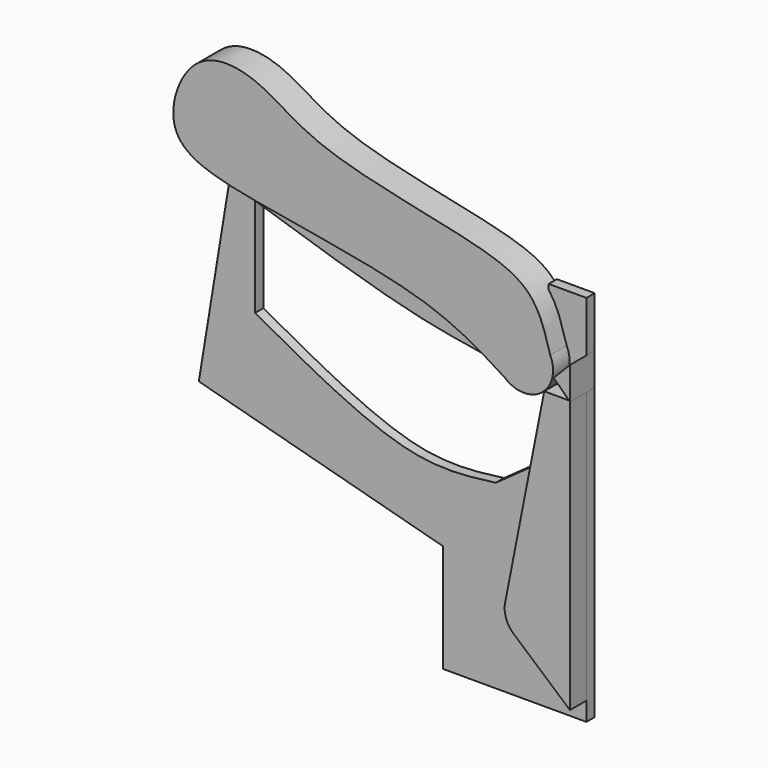
from build123d import *

# Parameters (mm, degrees)
F2_DEPTH = 7.62
F3_DEPTH = 2.54
F5_DEPTH = 7.62


with BuildPart() as f2:
    # F0 (on Front) → F2 (new body)
    with BuildSketch(Plane.XZ):
        with BuildLine():
            add(Edge.make_bspline(
                [(-4.8595262734, 26.105769272), (-6.0090820096, 30.1805077209), (-8.478526372, 38.91786545), (-23.9579202154, 45.2394997162), (-62.8325530371, 51.2752596857), (-76.2160611065, 63.2104947297), (-93.6581867771, 64.7898399659), (-101.9192264472, 41.7423062064), (-77.8660457322, 35.2104570619), (-35.6400972038, 29.9246830601), (-21.8519970914, 21.239513391), (-16.1021215498, 17.622244293)],
                knots=[0, 0, 0, 0, 0.0833317529, 0.1787243233, 0.3288260013, 0.4313814402, 0.5209413659, 0.6194539188, 0.7269748874, 0.8861875249, 1, 1, 1, 1], degree=3))
            ThreePointArc((-16.1021215498, 17.622244293), (-7.0117973227, 17.2667595253), (-4.8595262734, 26.105769272))
        make_face()
    extrude(amount=F2_DEPTH)


with BuildPart() as f2b:
    # F0 (on Front) → F2, piece 2 (new body)
    with BuildSketch(Plane.XZ):
        with BuildLine():
            Line((0, -49.3122972548), (0, 0))
            Line((0, 0), (0, 17.78))
            Line((0, 17.78), (-6.35, 17.78))
            Line((-6.35, 17.78), (-15.9811091455, -31.2370182301))
            ThreePointArc((-15.9811091455, -31.2370182301), (-15.7547488947, -34.5273100042), (-13.9086344996, -37.2602791883))
            Line((-13.9086344996, -37.2602791883), (0, -49.3122972548))
        make_face()
    extrude(amount=F2_DEPTH)


with BuildPart() as f3:
    # F1 (on Front) → F3 (new body)
    with BuildSketch(Plane.XZ):
        with BuildLine():
            Line((-9.3148173764, 14.3243800849), (-9.3148173764, 27.3197279042))
            Line((-9.3148173764, 27.3197279042), (-87.1251225471, 40.0683134794))
            Line((-87.1251225471, 40.0683134794), (-95.5135971308, -11.1302891746))
            Line((-95.5135971308, -11.1302891746), (-35.3480055928, -27.328716591))
            Line((-35.3480055928, -27.328716591), (-35.3480055928, -18.6509881169))
            Line((-35.3480055928, -18.6509881169), (-22.3314114846, -9.3254940584))
            add(Edge.make_bspline(
                [(-22.3314114846, -9.3254940584), (-28.8496043726, -10.173090338), (-44.6567600234, -12.2285812617), (-67.9444096485, 0.6701331571), (-81.6292315722, 8.2499710843)],
                knots=[0, 0, 0, 0, 0.4123571016, 1, 1, 1, 1], degree=3))
            Line((-81.6292315722, 8.2499710843), (-81.6292315722, 32.5476117432))
            add(Edge.make_bspline(
                [(-81.6292315722, 32.5476117432), (-66.8508440324, 27.7597324144), (-41.9808259495, 19.7023821002), (-21.4558919726, 17.3593682896), (-12.9964378097, 15.2447001521), (-9.3148173764, 14.3243800849)],
                knots=[0, 0, 0, 0, 0.4526825159, 0.761803162, 1, 1, 1, 1], degree=3))
        make_face()
        Polygon((-35.3480055928, -53.9404191077), (-9.3148173764, -53.9404191077), (-9.3148173764, -18.6509881169), (-35.3480055928, -18.6509881169), (-35.3480055928, -27.328716591), align=None)
        Polygon((-35.3480055928, -18.6509881169), (-9.3148173764, -18.6509881169), (-9.3148173764, 0), (-22.3314114846, -9.3254940584), align=None)
        Polygon((0, -53.9404191077), (0, 38.0435064435), (-9.3148173764, 38.0435064435), (-9.3148173764, 27.3197279042), (-9.3148173764, 14.3243800849), (-9.3148173764, 0), (-9.3148173764, -18.6509881169), (-9.3148173764, -53.9404191077), align=None)
    extrude(amount=F3_DEPTH)


with BuildPart() as f5:
    # F4 (on Front) → F5 (new body)
    with BuildSketch(Plane.XZ):
        Polygon((-3.9973570965, 21.4660987258), (0, 17.5631716847), (0, 25.5601705824), align=None)
    extrude(amount=F5_DEPTH)


solid = Compound([f2.part, f2b.part, f3.part, f5.part])
